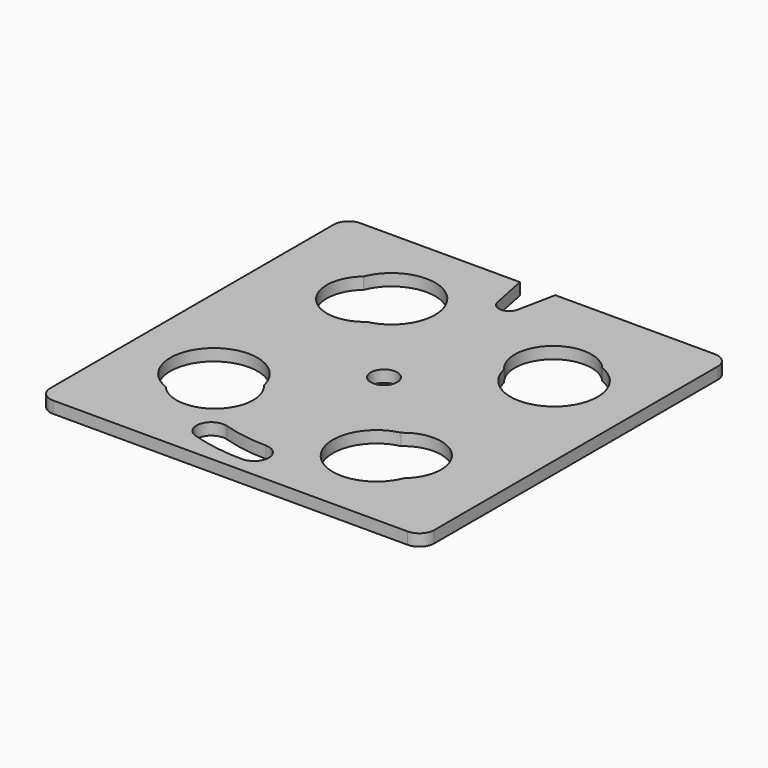
from build123d import *

# Parameters (mm, degrees)
F0_R     = 4.5
F1_DEPTH = 4


with BuildPart() as f1:
    # F0 (on Top) → F1 (new body)
    with BuildSketch(Plane.XY):
        with BuildLine():
            Line((-6, 65), (-60, 65))
            ThreePointArc((-60, 65), (-63.535534, 63.535534), (-65, 60))
            Line((-65, 60), (-65, -60))
            ThreePointArc((-65, -60), (-63.535534, -63.535534), (-60, -65))
            Line((-60, -65), (60, -65))
            ThreePointArc((60, -65), (63.535534, -63.535534), (65, -60))
            Line((65, -60), (65, 60))
            ThreePointArc((65, 60), (63.535534, 63.535534), (60, 65))
            Line((60, 65), (6, 65))
            Line((6, 65), (3.469298, 52.537427))
            ThreePointArc((3.469298, 52.537427), (0.117522, 49.501974), (-3.430428, 52.305619))
            Line((-3.430428, 52.305619), (-6, 65))
        make_face()
        with BuildLine():
            ThreePointArc((0, -50), (5, -55), (0, -60))
            ThreePointArc((0, -60), (-9.081374, -59.308757), (-17.953501, -57.250955))
            ThreePointArc((-17.953501, -57.250955), (-21.228289, -50.983917), (-14.961251, -47.709129))
            ThreePointArc((-14.961251, -47.709129), (-7.567812, -49.423964), (0, -50))
        make_face(mode=Mode.SUBTRACT)
        with BuildLine():
            ThreePointArc((-21.94325, -23.366779), (-23.366779, -41.696361), (-41.696361, -40.272831))
            ThreePointArc((-41.696361, -40.272831), (-45.942003, -15.319363), (-21.94325, -23.366779))
        make_face(mode=Mode.SUBTRACT)
        with BuildLine():
            ThreePointArc((23.366779, -21.94325), (41.696361, -23.366779), (40.272831, -41.696361))
            ThreePointArc((40.272831, -41.696361), (15.319363, -45.942003), (23.366779, -21.94325))
        make_face(mode=Mode.SUBTRACT)
        with BuildLine():
            ThreePointArc((-23.366779, 21.94325), (-41.696361, 23.366779), (-40.272831, 41.696361))
            ThreePointArc((-40.272831, 41.696361), (-15.319363, 45.942003), (-23.366779, 21.94325))
        make_face(mode=Mode.SUBTRACT)
        Circle(F0_R, mode=Mode.SUBTRACT)
        with BuildLine():
            ThreePointArc((21.94325, 23.366779), (23.366779, 41.696361), (41.696361, 40.272831))
            ThreePointArc((41.696361, 40.272831), (45.942003, 15.319363), (21.94325, 23.366779))
        make_face(mode=Mode.SUBTRACT)
    extrude(amount=F1_DEPTH)


solid = f1.part
